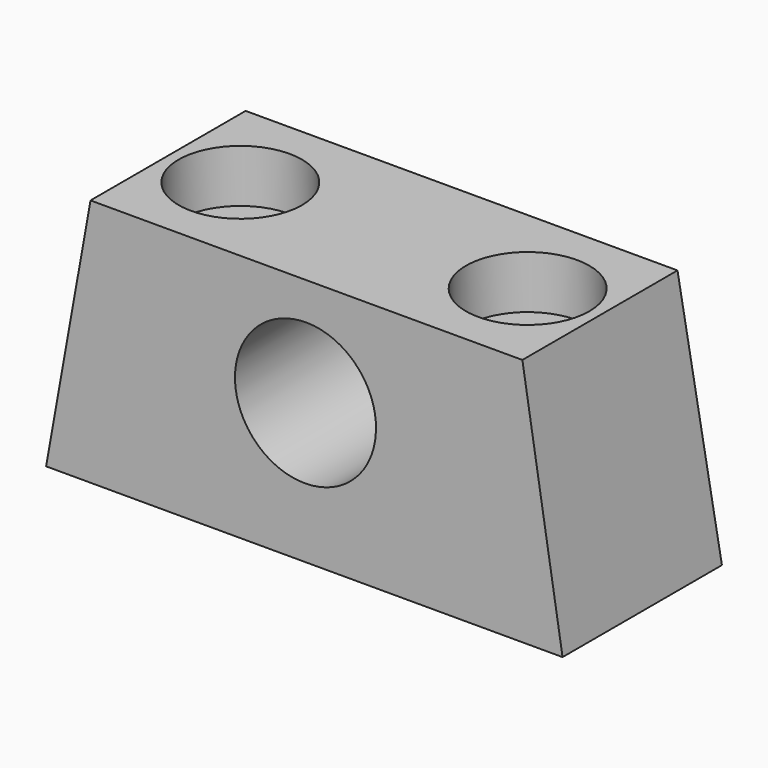
from build123d import *

# Parameters (mm, degrees)
F0_W           = 29.3
F0_H           = 11.3
F2_W           = 24.5
F2_H           = 11
F6_D           = 4
F6_CBORE_D     = 7
F6_CBORE_DEPTH = 3
F7_R           = 4
F8_DEPTH       = 5.6510001
F8_DEPTH_BACK  = 4


with BuildPart() as f3:
    # F0 (on Top) → F3 section 0
    with BuildSketch(Plane.XY):
        Rectangle(F0_W, F0_H)
    # F2 (on offset) → F3 section 1
    with BuildSketch(Plane.XY.offset(14)):
        Rectangle(F2_W, F2_H)
    loft()

    # F6 (through all)
    with Locations(Plane.XY.offset(14)):
        with Locations((-8.15, 0), (8.15, 0)):
            CounterBoreHole(F6_D / 2, F6_CBORE_D / 2, F6_CBORE_DEPTH)

    # F7 (on Front) → F8 (cut, two sides)
    with BuildSketch(Plane.XZ) as f8_sk:
        with Locations((0, 7.9)):
            Circle(F7_R)
    extrude(amount=F8_DEPTH, mode=Mode.SUBTRACT)
    extrude(f8_sk.sketch, amount=-F8_DEPTH_BACK, mode=Mode.SUBTRACT)


solid = f3.part
